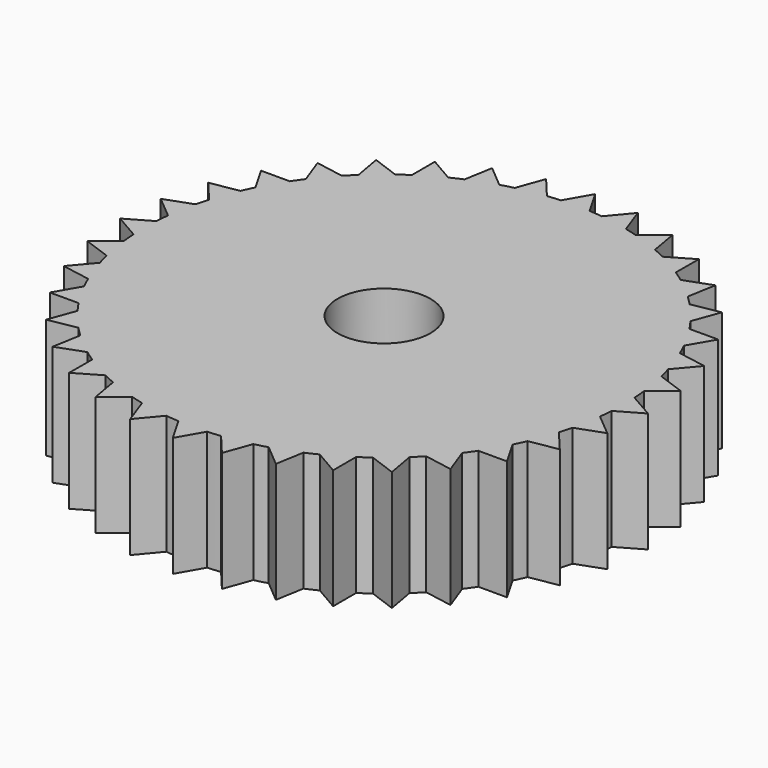
from build123d import *

# Parameters (mm, degrees)
F0_R     = 4.932335
F1_DEPTH = 12.7


with BuildPart() as f1:
    # F0 (on Top) → F1 (new body)
    with BuildSketch(Plane.XY):
        with BuildLine():
            ThreePointArc((25.35454, -1.518977), (25.388633, -0.759828), (25.4, 0))
            ThreePointArc((25.4, 0), (25.388633, 0.759828), (25.35454, 1.518977))
            ThreePointArc((25.35454, 1.518977), (25.303345, 2.213756), (25.233115, 2.90687))
            ThreePointArc((25.233115, 2.90687), (25.014117, 4.410664), (24.70558, 5.89867))
            ThreePointArc((24.70558, 5.89867), (24.534516, 6.574004), (24.344995, 7.244392))
            ThreePointArc((24.344995, 7.244392), (23.868193, 8.687312), (23.305954, 10.099135))
            ThreePointArc((23.305954, 10.099135), (23.020218, 10.734504), (22.717164, 11.361798))
            ThreePointArc((22.717164, 11.361798), (21.997045, 12.7), (21.198188, 13.992742))
            ThreePointArc((21.198188, 13.992742), (20.806462, 14.568841), (20.399084, 15.133981))
            ThreePointArc((20.399084, 15.133981), (19.457529, 16.326805), (18.446325, 17.461188))
            ThreePointArc((18.446325, 17.461188), (17.960512, 17.960512), (17.461188, 18.446325))
            ThreePointArc((17.461188, 18.446325), (16.326805, 19.457529), (15.133981, 20.399084))
            ThreePointArc((15.133981, 20.399084), (14.568841, 20.806462), (13.992742, 21.198188))
            ThreePointArc((13.992742, 21.198188), (12.7, 21.997045), (11.361798, 22.717164))
            ThreePointArc((11.361798, 22.717164), (10.734504, 23.020218), (10.099135, 23.305954))
            ThreePointArc((10.099135, 23.305954), (8.687312, 23.868193), (7.244392, 24.344995))
            ThreePointArc((7.244392, 24.344995), (6.574004, 24.534516), (5.89867, 24.70558))
            ThreePointArc((5.89867, 24.70558), (4.410664, 25.014117), (2.90687, 25.233115))
            ThreePointArc((2.90687, 25.233115), (2.213756, 25.303345), (1.518977, 25.35454))
            ThreePointArc((1.518977, 25.35454), (0, 25.4), (-1.518977, 25.35454))
            ThreePointArc((-1.518977, 25.35454), (-2.213756, 25.303345), (-2.90687, 25.233115))
            ThreePointArc((-2.90687, 25.233115), (-4.410664, 25.014117), (-5.89867, 24.70558))
            ThreePointArc((-5.89867, 24.70558), (-6.574004, 24.534516), (-7.244392, 24.344995))
            ThreePointArc((-7.244392, 24.344995), (-8.687312, 23.868193), (-10.099135, 23.305954))
            ThreePointArc((-10.099135, 23.305954), (-10.734504, 23.020218), (-11.361798, 22.717164))
            ThreePointArc((-11.361798, 22.717164), (-12.7, 21.997045), (-13.992742, 21.198188))
            ThreePointArc((-13.992742, 21.198188), (-14.568841, 20.806462), (-15.133981, 20.399084))
            ThreePointArc((-15.133981, 20.399084), (-16.326805, 19.457529), (-17.461188, 18.446325))
            ThreePointArc((-17.461188, 18.446325), (-17.960512, 17.960512), (-18.446325, 17.461188))
            ThreePointArc((-18.446325, 17.461188), (-19.457529, 16.326805), (-20.399084, 15.133981))
            ThreePointArc((-20.399084, 15.133981), (-20.806462, 14.568841), (-21.198188, 13.992742))
            ThreePointArc((-21.198188, 13.992742), (-21.997045, 12.7), (-22.717164, 11.361798))
            ThreePointArc((-22.717164, 11.361798), (-23.020218, 10.734504), (-23.305954, 10.099135))
            ThreePointArc((-23.305954, 10.099135), (-23.868193, 8.687312), (-24.344995, 7.244392))
            ThreePointArc((-24.344995, 7.244392), (-24.534516, 6.574004), (-24.70558, 5.89867))
            ThreePointArc((-24.70558, 5.89867), (-25.014117, 4.410664), (-25.233115, 2.90687))
            ThreePointArc((-25.233115, 2.90687), (-25.303345, 2.213756), (-25.35454, 1.518977))
            ThreePointArc((-25.35454, 1.518977), (-25.4, 0), (-25.35454, -1.518977))
            ThreePointArc((-25.35454, -1.518977), (-25.303345, -2.213756), (-25.233115, -2.90687))
            ThreePointArc((-25.233115, -2.90687), (-25.014117, -4.410664), (-24.70558, -5.89867))
            ThreePointArc((-24.70558, -5.89867), (-24.534516, -6.574004), (-24.344995, -7.244392))
            ThreePointArc((-24.344995, -7.244392), (-23.868193, -8.687312), (-23.305954, -10.099135))
            ThreePointArc((-23.305954, -10.099135), (-23.020218, -10.734504), (-22.717164, -11.361798))
            ThreePointArc((-22.717164, -11.361798), (-21.997045, -12.7), (-21.198188, -13.992742))
            ThreePointArc((-21.198188, -13.992742), (-20.806462, -14.568841), (-20.399084, -15.133981))
            ThreePointArc((-20.399084, -15.133981), (-19.457529, -16.326805), (-18.446325, -17.461188))
            ThreePointArc((-18.446325, -17.461188), (-17.960512, -17.960512), (-17.461188, -18.446325))
            ThreePointArc((-17.461188, -18.446325), (-16.326805, -19.457529), (-15.133981, -20.399084))
            ThreePointArc((-15.133981, -20.399084), (-14.568841, -20.806462), (-13.992742, -21.198188))
            ThreePointArc((-13.992742, -21.198188), (-12.7, -21.997045), (-11.361798, -22.717164))
            ThreePointArc((-11.361798, -22.717164), (-10.734504, -23.020218), (-10.099135, -23.305954))
            ThreePointArc((-10.099135, -23.305954), (-8.687312, -23.868193), (-7.244392, -24.344995))
            ThreePointArc((-7.244392, -24.344995), (-6.574004, -24.534516), (-5.89867, -24.70558))
            ThreePointArc((-5.89867, -24.70558), (-4.410664, -25.014117), (-2.90687, -25.233115))
            ThreePointArc((-2.90687, -25.233115), (-2.213756, -25.303345), (-1.518977, -25.35454))
            ThreePointArc((-1.518977, -25.35454), (0, -25.4), (1.518977, -25.35454))
            ThreePointArc((1.518977, -25.35454), (2.213756, -25.303345), (2.90687, -25.233115))
            ThreePointArc((2.90687, -25.233115), (4.410664, -25.014117), (5.89867, -24.70558))
            ThreePointArc((5.89867, -24.70558), (6.574004, -24.534516), (7.244392, -24.344995))
            ThreePointArc((7.244392, -24.344995), (8.687312, -23.868193), (10.099135, -23.305954))
            ThreePointArc((10.099135, -23.305954), (10.734504, -23.020218), (11.361798, -22.717164))
            ThreePointArc((11.361798, -22.717164), (12.7, -21.997045), (13.992742, -21.198188))
            ThreePointArc((13.992742, -21.198188), (14.568841, -20.806462), (15.133981, -20.399084))
            ThreePointArc((15.133981, -20.399084), (16.326805, -19.457529), (17.461188, -18.446325))
            ThreePointArc((17.461188, -18.446325), (17.960512, -17.960512), (18.446325, -17.461188))
            ThreePointArc((18.446325, -17.461188), (19.457529, -16.326805), (20.399084, -15.133981))
            ThreePointArc((20.399084, -15.133981), (20.806462, -14.568841), (21.198188, -13.992742))
            ThreePointArc((21.198188, -13.992742), (21.997045, -12.7), (22.717164, -11.361798))
            ThreePointArc((22.717164, -11.361798), (23.020218, -10.734504), (23.305954, -10.099135))
            ThreePointArc((23.305954, -10.099135), (23.868193, -8.687312), (24.344995, -7.244392))
            ThreePointArc((24.344995, -7.244392), (24.534516, -6.574004), (24.70558, -5.89867))
            ThreePointArc((24.70558, -5.89867), (25.014117, -4.410664), (25.233115, -2.90687))
            ThreePointArc((25.233115, -2.90687), (25.303345, -2.213756), (25.35454, -1.518977))
        make_face()
        Circle(F0_R, mode=Mode.SUBTRACT)
        with BuildLine():
            ThreePointArc((25.35454, 1.518977), (25.388633, 0.759828), (25.4, 0))
            ThreePointArc((25.4, 0), (25.388633, -0.759828), (25.35454, -1.518977))
            Line((25.35454, -1.518977), (27.99708, 0))
            Line((27.99708, 0), (25.35454, 1.518977))
        make_face()
        with BuildLine():
            ThreePointArc((24.70558, 5.89867), (25.014117, 4.410664), (25.233115, 2.90687))
            Line((25.233115, 2.90687), (27.571741, 4.861642))
            Line((27.571741, 4.861642), (24.70558, 5.89867))
        make_face()
        with BuildLine():
            Line((27.571741, -4.861642), (25.233115, -2.90687))
            ThreePointArc((25.233115, -2.90687), (25.014117, -4.410664), (24.70558, -5.89867))
            Line((24.70558, -5.89867), (27.571741, -4.861642))
        make_face()
        with BuildLine():
            ThreePointArc((23.305954, 10.099135), (23.868193, 8.687312), (24.344995, 7.244392))
            Line((24.344995, 7.244392), (26.308649, 9.575565))
            Line((26.308649, 9.575565), (23.305954, 10.099135))
        make_face()
        with BuildLine():
            Line((26.308649, -9.575565), (24.344995, -7.244392))
            ThreePointArc((24.344995, -7.244392), (23.868193, -8.687312), (23.305954, -10.099135))
            Line((23.305954, -10.099135), (26.308649, -9.575565))
        make_face()
        with BuildLine():
            ThreePointArc((21.198188, 13.992742), (21.997045, 12.7), (22.717164, 11.361798))
            Line((22.717164, 11.361798), (24.246182, 13.99854))
            Line((24.246182, 13.99854), (21.198188, 13.992742))
        make_face()
        with BuildLine():
            Line((24.246182, -13.99854), (22.717164, -11.361798))
            ThreePointArc((22.717164, -11.361798), (21.997045, -12.7), (21.198188, -13.992742))
            Line((21.198188, -13.992742), (24.246182, -13.99854))
        make_face()
        with BuildLine():
            ThreePointArc((18.446325, 17.461188), (19.457529, 16.326805), (20.399084, 15.133981))
            Line((20.399084, 15.133981), (21.447007, 17.996176))
            Line((21.447007, 17.996176), (18.446325, 17.461188))
        make_face()
        with BuildLine():
            Line((21.447007, -17.996176), (20.399084, -15.133981))
            ThreePointArc((20.399084, -15.133981), (19.457529, -16.326805), (18.446325, -17.461188))
            Line((18.446325, -17.461188), (21.447007, -17.996176))
        make_face()
        with BuildLine():
            ThreePointArc((15.133981, 20.399084), (16.326805, 19.457529), (17.461188, 18.446325))
            Line((17.461188, 18.446325), (17.996176, 21.447007))
            Line((17.996176, 21.447007), (15.133981, 20.399084))
        make_face()
        with BuildLine():
            Line((17.996176, -21.447007), (17.461188, -18.446325))
            ThreePointArc((17.461188, -18.446325), (16.326805, -19.457529), (15.133981, -20.399084))
            Line((15.133981, -20.399084), (17.996176, -21.447007))
        make_face()
        with BuildLine():
            ThreePointArc((11.361798, 22.717164), (12.7, 21.997045), (13.992742, 21.198188))
            Line((13.992742, 21.198188), (13.99854, 24.246182))
            Line((13.99854, 24.246182), (11.361798, 22.717164))
        make_face()
        with BuildLine():
            Line((13.99854, -24.246182), (13.992742, -21.198188))
            ThreePointArc((13.992742, -21.198188), (12.7, -21.997045), (11.361798, -22.717164))
            Line((11.361798, -22.717164), (13.99854, -24.246182))
        make_face()
        with BuildLine():
            ThreePointArc((7.244392, 24.344995), (8.687312, 23.868193), (10.099135, 23.305954))
            Line((10.099135, 23.305954), (9.575565, 26.308649))
            Line((9.575565, 26.308649), (7.244392, 24.344995))
        make_face()
        with BuildLine():
            Line((9.575565, -26.308649), (10.099135, -23.305954))
            ThreePointArc((10.099135, -23.305954), (8.687312, -23.868193), (7.244392, -24.344995))
            Line((7.244392, -24.344995), (9.575565, -26.308649))
        make_face()
        with BuildLine():
            ThreePointArc((2.90687, 25.233115), (4.410664, 25.014117), (5.89867, 24.70558))
            Line((5.89867, 24.70558), (4.861642, 27.571741))
            Line((4.861642, 27.571741), (2.90687, 25.233115))
        make_face()
        with BuildLine():
            Line((4.861642, -27.571741), (5.89867, -24.70558))
            ThreePointArc((5.89867, -24.70558), (4.410664, -25.014117), (2.90687, -25.233115))
            Line((2.90687, -25.233115), (4.861642, -27.571741))
        make_face()
        with BuildLine():
            ThreePointArc((-1.518977, 25.35454), (0, 25.4), (1.518977, 25.35454))
            Line((1.518977, 25.35454), (0, 27.99708))
            Line((0, 27.99708), (-1.518977, 25.35454))
        make_face()
        with BuildLine():
            Line((0, -27.99708), (1.518977, -25.35454))
            ThreePointArc((1.518977, -25.35454), (0, -25.4), (-1.518977, -25.35454))
            Line((-1.518977, -25.35454), (0, -27.99708))
        make_face()
        with BuildLine():
            ThreePointArc((-5.89867, 24.70558), (-4.410664, 25.014117), (-2.90687, 25.233115))
            Line((-2.90687, 25.233115), (-4.861642, 27.571741))
            Line((-4.861642, 27.571741), (-5.89867, 24.70558))
        make_face()
        with BuildLine():
            Line((-4.861642, -27.571741), (-2.90687, -25.233115))
            ThreePointArc((-2.90687, -25.233115), (-4.410664, -25.014117), (-5.89867, -24.70558))
            Line((-5.89867, -24.70558), (-4.861642, -27.571741))
        make_face()
        with BuildLine():
            ThreePointArc((-10.099135, 23.305954), (-8.687312, 23.868193), (-7.244392, 24.344995))
            Line((-7.244392, 24.344995), (-9.575565, 26.308649))
            Line((-9.575565, 26.308649), (-10.099135, 23.305954))
        make_face()
        with BuildLine():
            Line((-9.575565, -26.308649), (-7.244392, -24.344995))
            ThreePointArc((-7.244392, -24.344995), (-8.687312, -23.868193), (-10.099135, -23.305954))
            Line((-10.099135, -23.305954), (-9.575565, -26.308649))
        make_face()
        with BuildLine():
            ThreePointArc((-13.992742, 21.198188), (-12.7, 21.997045), (-11.361798, 22.717164))
            Line((-11.361798, 22.717164), (-13.99854, 24.246182))
            Line((-13.99854, 24.246182), (-13.992742, 21.198188))
        make_face()
        with BuildLine():
            Line((-13.99854, -24.246182), (-11.361798, -22.717164))
            ThreePointArc((-11.361798, -22.717164), (-12.7, -21.997045), (-13.992742, -21.198188))
            Line((-13.992742, -21.198188), (-13.99854, -24.246182))
        make_face()
        with BuildLine():
            ThreePointArc((-17.461188, 18.446325), (-16.326805, 19.457529), (-15.133981, 20.399084))
            Line((-15.133981, 20.399084), (-17.996176, 21.447007))
            Line((-17.996176, 21.447007), (-17.461188, 18.446325))
        make_face()
        with BuildLine():
            Line((-17.996176, -21.447007), (-15.133981, -20.399084))
            ThreePointArc((-15.133981, -20.399084), (-16.326805, -19.457529), (-17.461188, -18.446325))
            Line((-17.461188, -18.446325), (-17.996176, -21.447007))
        make_face()
        with BuildLine():
            ThreePointArc((-20.399084, 15.133981), (-19.457529, 16.326805), (-18.446325, 17.461188))
            Line((-18.446325, 17.461188), (-21.447007, 17.996176))
            Line((-21.447007, 17.996176), (-20.399084, 15.133981))
        make_face()
        with BuildLine():
            Line((-21.447007, -17.996176), (-18.446325, -17.461188))
            ThreePointArc((-18.446325, -17.461188), (-19.457529, -16.326805), (-20.399084, -15.133981))
            Line((-20.399084, -15.133981), (-21.447007, -17.996176))
        make_face()
        with BuildLine():
            ThreePointArc((-22.717164, 11.361798), (-21.997045, 12.7), (-21.198188, 13.992742))
            Line((-21.198188, 13.992742), (-24.246182, 13.99854))
            Line((-24.246182, 13.99854), (-22.717164, 11.361798))
        make_face()
        with BuildLine():
            Line((-24.246182, -13.99854), (-21.198188, -13.992742))
            ThreePointArc((-21.198188, -13.992742), (-21.997045, -12.7), (-22.717164, -11.361798))
            Line((-22.717164, -11.361798), (-24.246182, -13.99854))
        make_face()
        with BuildLine():
            ThreePointArc((-24.344995, 7.244392), (-23.868193, 8.687312), (-23.305954, 10.099135))
            Line((-23.305954, 10.099135), (-26.308649, 9.575565))
            Line((-26.308649, 9.575565), (-24.344995, 7.244392))
        make_face()
        with BuildLine():
            Line((-26.308649, -9.575565), (-23.305954, -10.099135))
            ThreePointArc((-23.305954, -10.099135), (-23.868193, -8.687312), (-24.344995, -7.244392))
            Line((-24.344995, -7.244392), (-26.308649, -9.575565))
        make_face()
        with BuildLine():
            ThreePointArc((-25.233115, 2.90687), (-25.014117, 4.410664), (-24.70558, 5.89867))
            Line((-24.70558, 5.89867), (-27.571741, 4.861642))
            Line((-27.571741, 4.861642), (-25.233115, 2.90687))
        make_face()
        with BuildLine():
            Line((-27.571741, -4.861642), (-24.70558, -5.89867))
            ThreePointArc((-24.70558, -5.89867), (-25.014117, -4.410664), (-25.233115, -2.90687))
            Line((-25.233115, -2.90687), (-27.571741, -4.861642))
        make_face()
        with BuildLine():
            ThreePointArc((-25.35454, -1.518977), (-25.4, 0), (-25.35454, 1.518977))
            Line((-25.35454, 1.518977), (-27.99708, 0))
            Line((-27.99708, 0), (-25.35454, -1.518977))
        make_face()
        with BuildLine():
            Line((-17.996176, -21.447007), (-15.133981, -20.399084))
            ThreePointArc((-15.133981, -20.399084), (-16.326805, -19.457529), (-17.461188, -18.446325))
            Line((-17.461188, -18.446325), (-17.996176, -21.447007))
        make_face()
        with BuildLine():
            Line((-4.861642, -27.571741), (-2.90687, -25.233115))
            ThreePointArc((-2.90687, -25.233115), (-4.410664, -25.014117), (-5.89867, -24.70558))
            Line((-5.89867, -24.70558), (-4.861642, -27.571741))
        make_face()
        with BuildLine():
            Line((27.571741, -4.861642), (25.233115, -2.90687))
            ThreePointArc((25.233115, -2.90687), (25.014117, -4.410664), (24.70558, -5.89867))
            Line((24.70558, -5.89867), (27.571741, -4.861642))
        make_face()
        with BuildLine():
            Line((26.308649, -9.575565), (24.344995, -7.244392))
            ThreePointArc((24.344995, -7.244392), (23.868193, -8.687312), (23.305954, -10.099135))
            Line((23.305954, -10.099135), (26.308649, -9.575565))
        make_face()
        with BuildLine():
            ThreePointArc((-10.099135, 23.305954), (-8.687312, 23.868193), (-7.244392, 24.344995))
            Line((-7.244392, 24.344995), (-9.575565, 26.308649))
            Line((-9.575565, 26.308649), (-10.099135, 23.305954))
        make_face()
        with BuildLine():
            ThreePointArc((-5.89867, 24.70558), (-4.410664, 25.014117), (-2.90687, 25.233115))
            Line((-2.90687, 25.233115), (-4.861642, 27.571741))
            Line((-4.861642, 27.571741), (-5.89867, 24.70558))
        make_face()
        with BuildLine():
            ThreePointArc((7.244392, 24.344995), (8.687312, 23.868193), (10.099135, 23.305954))
            Line((10.099135, 23.305954), (9.575565, 26.308649))
            Line((9.575565, 26.308649), (7.244392, 24.344995))
        make_face()
        with BuildLine():
            ThreePointArc((23.305954, 10.099135), (23.868193, 8.687312), (24.344995, 7.244392))
            Line((24.344995, 7.244392), (26.308649, 9.575565))
            Line((26.308649, 9.575565), (23.305954, 10.099135))
        make_face()
        with BuildLine():
            ThreePointArc((-25.233115, 2.90687), (-25.014117, 4.410664), (-24.70558, 5.89867))
            Line((-24.70558, 5.89867), (-27.571741, 4.861642))
            Line((-27.571741, 4.861642), (-25.233115, 2.90687))
        make_face()
        with BuildLine():
            ThreePointArc((-20.399084, 15.133981), (-19.457529, 16.326805), (-18.446325, 17.461188))
            Line((-18.446325, 17.461188), (-21.447007, 17.996176))
            Line((-21.447007, 17.996176), (-20.399084, 15.133981))
        make_face()
        with BuildLine():
            Line((0, -27.99708), (1.518977, -25.35454))
            ThreePointArc((1.518977, -25.35454), (0, -25.4), (-1.518977, -25.35454))
            Line((-1.518977, -25.35454), (0, -27.99708))
        make_face()
        with BuildLine():
            Line((-27.571741, -4.861642), (-24.70558, -5.89867))
            ThreePointArc((-24.70558, -5.89867), (-25.014117, -4.410664), (-25.233115, -2.90687))
            Line((-25.233115, -2.90687), (-27.571741, -4.861642))
        make_face()
        with BuildLine():
            ThreePointArc((-17.461188, 18.446325), (-16.326805, 19.457529), (-15.133981, 20.399084))
            Line((-15.133981, 20.399084), (-17.996176, 21.447007))
            Line((-17.996176, 21.447007), (-17.461188, 18.446325))
        make_face()
        with BuildLine():
            ThreePointArc((-1.518977, 25.35454), (0, 25.4), (1.518977, 25.35454))
            Line((1.518977, 25.35454), (0, 27.99708))
            Line((0, 27.99708), (-1.518977, 25.35454))
        make_face()
        with BuildLine():
            ThreePointArc((21.198188, 13.992742), (21.997045, 12.7), (22.717164, 11.361798))
            Line((22.717164, 11.361798), (24.246182, 13.99854))
            Line((24.246182, 13.99854), (21.198188, 13.992742))
        make_face()
        with BuildLine():
            ThreePointArc((24.70558, 5.89867), (25.014117, 4.410664), (25.233115, 2.90687))
            Line((25.233115, 2.90687), (27.571741, 4.861642))
            Line((27.571741, 4.861642), (24.70558, 5.89867))
        make_face()
        with BuildLine():
            Line((24.246182, -13.99854), (22.717164, -11.361798))
            ThreePointArc((22.717164, -11.361798), (21.997045, -12.7), (21.198188, -13.992742))
            Line((21.198188, -13.992742), (24.246182, -13.99854))
        make_face()
        with BuildLine():
            ThreePointArc((-22.717164, 11.361798), (-21.997045, 12.7), (-21.198188, 13.992742))
            Line((-21.198188, 13.992742), (-24.246182, 13.99854))
            Line((-24.246182, 13.99854), (-22.717164, 11.361798))
        make_face()
        with BuildLine():
            ThreePointArc((25.35454, -1.518977), (25.388633, -0.759828), (25.4, 0))
            ThreePointArc((25.4, 0), (25.388633, 0.759828), (25.35454, 1.518977))
            ThreePointArc((25.35454, 1.518977), (25.303345, 2.213756), (25.233115, 2.90687))
            ThreePointArc((25.233115, 2.90687), (25.014117, 4.410664), (24.70558, 5.89867))
            ThreePointArc((24.70558, 5.89867), (24.534516, 6.574004), (24.344995, 7.244392))
            ThreePointArc((24.344995, 7.244392), (23.868193, 8.687312), (23.305954, 10.099135))
            ThreePointArc((23.305954, 10.099135), (23.020218, 10.734504), (22.717164, 11.361798))
            ThreePointArc((22.717164, 11.361798), (21.997045, 12.7), (21.198188, 13.992742))
            ThreePointArc((21.198188, 13.992742), (20.806462, 14.568841), (20.399084, 15.133981))
            ThreePointArc((20.399084, 15.133981), (19.457529, 16.326805), (18.446325, 17.461188))
            ThreePointArc((18.446325, 17.461188), (17.960512, 17.960512), (17.461188, 18.446325))
            ThreePointArc((17.461188, 18.446325), (16.326805, 19.457529), (15.133981, 20.399084))
            ThreePointArc((15.133981, 20.399084), (14.568841, 20.806462), (13.992742, 21.198188))
            ThreePointArc((13.992742, 21.198188), (12.7, 21.997045), (11.361798, 22.717164))
            ThreePointArc((11.361798, 22.717164), (10.734504, 23.020218), (10.099135, 23.305954))
            ThreePointArc((10.099135, 23.305954), (8.687312, 23.868193), (7.244392, 24.344995))
            ThreePointArc((7.244392, 24.344995), (6.574004, 24.534516), (5.89867, 24.70558))
            ThreePointArc((5.89867, 24.70558), (4.410664, 25.014117), (2.90687, 25.233115))
            ThreePointArc((2.90687, 25.233115), (2.213756, 25.303345), (1.518977, 25.35454))
            ThreePointArc((1.518977, 25.35454), (0, 25.4), (-1.518977, 25.35454))
            ThreePointArc((-1.518977, 25.35454), (-2.213756, 25.303345), (-2.90687, 25.233115))
            ThreePointArc((-2.90687, 25.233115), (-4.410664, 25.014117), (-5.89867, 24.70558))
            ThreePointArc((-5.89867, 24.70558), (-6.574004, 24.534516), (-7.244392, 24.344995))
            ThreePointArc((-7.244392, 24.344995), (-8.687312, 23.868193), (-10.099135, 23.305954))
            ThreePointArc((-10.099135, 23.305954), (-10.734504, 23.020218), (-11.361798, 22.717164))
            ThreePointArc((-11.361798, 22.717164), (-12.7, 21.997045), (-13.992742, 21.198188))
            ThreePointArc((-13.992742, 21.198188), (-14.568841, 20.806462), (-15.133981, 20.399084))
            ThreePointArc((-15.133981, 20.399084), (-16.326805, 19.457529), (-17.461188, 18.446325))
            ThreePointArc((-17.461188, 18.446325), (-17.960512, 17.960512), (-18.446325, 17.461188))
            ThreePointArc((-18.446325, 17.461188), (-19.457529, 16.326805), (-20.399084, 15.133981))
            ThreePointArc((-20.399084, 15.133981), (-20.806462, 14.568841), (-21.198188, 13.992742))
            ThreePointArc((-21.198188, 13.992742), (-21.997045, 12.7), (-22.717164, 11.361798))
            ThreePointArc((-22.717164, 11.361798), (-23.020218, 10.734504), (-23.305954, 10.099135))
            ThreePointArc((-23.305954, 10.099135), (-23.868193, 8.687312), (-24.344995, 7.244392))
            ThreePointArc((-24.344995, 7.244392), (-24.534516, 6.574004), (-24.70558, 5.89867))
            ThreePointArc((-24.70558, 5.89867), (-25.014117, 4.410664), (-25.233115, 2.90687))
            ThreePointArc((-25.233115, 2.90687), (-25.303345, 2.213756), (-25.35454, 1.518977))
            ThreePointArc((-25.35454, 1.518977), (-25.4, 0), (-25.35454, -1.518977))
            ThreePointArc((-25.35454, -1.518977), (-25.303345, -2.213756), (-25.233115, -2.90687))
            ThreePointArc((-25.233115, -2.90687), (-25.014117, -4.410664), (-24.70558, -5.89867))
            ThreePointArc((-24.70558, -5.89867), (-24.534516, -6.574004), (-24.344995, -7.244392))
            ThreePointArc((-24.344995, -7.244392), (-23.868193, -8.687312), (-23.305954, -10.099135))
            ThreePointArc((-23.305954, -10.099135), (-23.020218, -10.734504), (-22.717164, -11.361798))
            ThreePointArc((-22.717164, -11.361798), (-21.997045, -12.7), (-21.198188, -13.992742))
            ThreePointArc((-21.198188, -13.992742), (-20.806462, -14.568841), (-20.399084, -15.133981))
            ThreePointArc((-20.399084, -15.133981), (-19.457529, -16.326805), (-18.446325, -17.461188))
            ThreePointArc((-18.446325, -17.461188), (-17.960512, -17.960512), (-17.461188, -18.446325))
            ThreePointArc((-17.461188, -18.446325), (-16.326805, -19.457529), (-15.133981, -20.399084))
            ThreePointArc((-15.133981, -20.399084), (-14.568841, -20.806462), (-13.992742, -21.198188))
            ThreePointArc((-13.992742, -21.198188), (-12.7, -21.997045), (-11.361798, -22.717164))
            ThreePointArc((-11.361798, -22.717164), (-10.734504, -23.020218), (-10.099135, -23.305954))
            ThreePointArc((-10.099135, -23.305954), (-8.687312, -23.868193), (-7.244392, -24.344995))
            ThreePointArc((-7.244392, -24.344995), (-6.574004, -24.534516), (-5.89867, -24.70558))
            ThreePointArc((-5.89867, -24.70558), (-4.410664, -25.014117), (-2.90687, -25.233115))
            ThreePointArc((-2.90687, -25.233115), (-2.213756, -25.303345), (-1.518977, -25.35454))
            ThreePointArc((-1.518977, -25.35454), (0, -25.4), (1.518977, -25.35454))
            ThreePointArc((1.518977, -25.35454), (2.213756, -25.303345), (2.90687, -25.233115))
            ThreePointArc((2.90687, -25.233115), (4.410664, -25.014117), (5.89867, -24.70558))
            ThreePointArc((5.89867, -24.70558), (6.574004, -24.534516), (7.244392, -24.344995))
            ThreePointArc((7.244392, -24.344995), (8.687312, -23.868193), (10.099135, -23.305954))
            ThreePointArc((10.099135, -23.305954), (10.734504, -23.020218), (11.361798, -22.717164))
            ThreePointArc((11.361798, -22.717164), (12.7, -21.997045), (13.992742, -21.198188))
            ThreePointArc((13.992742, -21.198188), (14.568841, -20.806462), (15.133981, -20.399084))
            ThreePointArc((15.133981, -20.399084), (16.326805, -19.457529), (17.461188, -18.446325))
            ThreePointArc((17.461188, -18.446325), (17.960512, -17.960512), (18.446325, -17.461188))
            ThreePointArc((18.446325, -17.461188), (19.457529, -16.326805), (20.399084, -15.133981))
            ThreePointArc((20.399084, -15.133981), (20.806462, -14.568841), (21.198188, -13.992742))
            ThreePointArc((21.198188, -13.992742), (21.997045, -12.7), (22.717164, -11.361798))
            ThreePointArc((22.717164, -11.361798), (23.020218, -10.734504), (23.305954, -10.099135))
            ThreePointArc((23.305954, -10.099135), (23.868193, -8.687312), (24.344995, -7.244392))
            ThreePointArc((24.344995, -7.244392), (24.534516, -6.574004), (24.70558, -5.89867))
            ThreePointArc((24.70558, -5.89867), (25.014117, -4.410664), (25.233115, -2.90687))
            ThreePointArc((25.233115, -2.90687), (25.303345, -2.213756), (25.35454, -1.518977))
        make_face()
        Circle(F0_R, mode=Mode.SUBTRACT)
        with BuildLine():
            Line((-21.447007, -17.996176), (-18.446325, -17.461188))
            ThreePointArc((-18.446325, -17.461188), (-19.457529, -16.326805), (-20.399084, -15.133981))
            Line((-20.399084, -15.133981), (-21.447007, -17.996176))
        make_face()
        with BuildLine():
            Line((-24.246182, -13.99854), (-21.198188, -13.992742))
            ThreePointArc((-21.198188, -13.992742), (-21.997045, -12.7), (-22.717164, -11.361798))
            Line((-22.717164, -11.361798), (-24.246182, -13.99854))
        make_face()
        with BuildLine():
            ThreePointArc((-13.992742, 21.198188), (-12.7, 21.997045), (-11.361798, 22.717164))
            Line((-11.361798, 22.717164), (-13.99854, 24.246182))
            Line((-13.99854, 24.246182), (-13.992742, 21.198188))
        make_face()
        with BuildLine():
            ThreePointArc((15.133981, 20.399084), (16.326805, 19.457529), (17.461188, 18.446325))
            Line((17.461188, 18.446325), (17.996176, 21.447007))
            Line((17.996176, 21.447007), (15.133981, 20.399084))
        make_face()
        with BuildLine():
            Line((17.996176, -21.447007), (17.461188, -18.446325))
            ThreePointArc((17.461188, -18.446325), (16.326805, -19.457529), (15.133981, -20.399084))
            Line((15.133981, -20.399084), (17.996176, -21.447007))
        make_face()
        with BuildLine():
            Line((4.861642, -27.571741), (5.89867, -24.70558))
            ThreePointArc((5.89867, -24.70558), (4.410664, -25.014117), (2.90687, -25.233115))
            Line((2.90687, -25.233115), (4.861642, -27.571741))
        make_face()
        with BuildLine():
            ThreePointArc((25.35454, 1.518977), (25.388633, 0.759828), (25.4, 0))
            ThreePointArc((25.4, 0), (25.388633, -0.759828), (25.35454, -1.518977))
            Line((25.35454, -1.518977), (27.99708, 0))
            Line((27.99708, 0), (25.35454, 1.518977))
        make_face()
        with BuildLine():
            Line((-26.308649, -9.575565), (-23.305954, -10.099135))
            ThreePointArc((-23.305954, -10.099135), (-23.868193, -8.687312), (-24.344995, -7.244392))
            Line((-24.344995, -7.244392), (-26.308649, -9.575565))
        make_face()
        with BuildLine():
            Line((21.447007, -17.996176), (20.399084, -15.133981))
            ThreePointArc((20.399084, -15.133981), (19.457529, -16.326805), (18.446325, -17.461188))
            Line((18.446325, -17.461188), (21.447007, -17.996176))
        make_face()
        with BuildLine():
            Line((-9.575565, -26.308649), (-7.244392, -24.344995))
            ThreePointArc((-7.244392, -24.344995), (-8.687312, -23.868193), (-10.099135, -23.305954))
            Line((-10.099135, -23.305954), (-9.575565, -26.308649))
        make_face()
        with BuildLine():
            ThreePointArc((-25.35454, -1.518977), (-25.4, 0), (-25.35454, 1.518977))
            Line((-25.35454, 1.518977), (-27.99708, 0))
            Line((-27.99708, 0), (-25.35454, -1.518977))
        make_face()
        with BuildLine():
            Line((-13.99854, -24.246182), (-11.361798, -22.717164))
            ThreePointArc((-11.361798, -22.717164), (-12.7, -21.997045), (-13.992742, -21.198188))
            Line((-13.992742, -21.198188), (-13.99854, -24.246182))
        make_face()
        with BuildLine():
            ThreePointArc((2.90687, 25.233115), (4.410664, 25.014117), (5.89867, 24.70558))
            Line((5.89867, 24.70558), (4.861642, 27.571741))
            Line((4.861642, 27.571741), (2.90687, 25.233115))
        make_face()
        with BuildLine():
            ThreePointArc((11.361798, 22.717164), (12.7, 21.997045), (13.992742, 21.198188))
            Line((13.992742, 21.198188), (13.99854, 24.246182))
            Line((13.99854, 24.246182), (11.361798, 22.717164))
        make_face()
        with BuildLine():
            ThreePointArc((18.446325, 17.461188), (19.457529, 16.326805), (20.399084, 15.133981))
            Line((20.399084, 15.133981), (21.447007, 17.996176))
            Line((21.447007, 17.996176), (18.446325, 17.461188))
        make_face()
        with BuildLine():
            ThreePointArc((-24.344995, 7.244392), (-23.868193, 8.687312), (-23.305954, 10.099135))
            Line((-23.305954, 10.099135), (-26.308649, 9.575565))
            Line((-26.308649, 9.575565), (-24.344995, 7.244392))
        make_face()
        with BuildLine():
            Line((9.575565, -26.308649), (10.099135, -23.305954))
            ThreePointArc((10.099135, -23.305954), (8.687312, -23.868193), (7.244392, -24.344995))
            Line((7.244392, -24.344995), (9.575565, -26.308649))
        make_face()
        with BuildLine():
            Line((13.99854, -24.246182), (13.992742, -21.198188))
            ThreePointArc((13.992742, -21.198188), (12.7, -21.997045), (11.361798, -22.717164))
            Line((11.361798, -22.717164), (13.99854, -24.246182))
        make_face()
    extrude(amount=F1_DEPTH)


solid = f1.part
